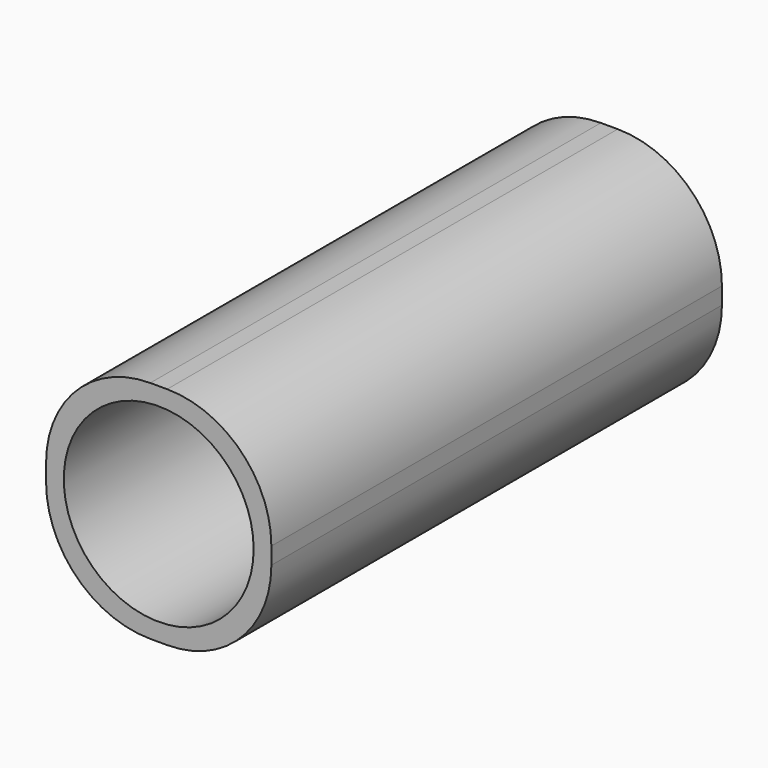
from build123d import *

# Parameters (mm, degrees)
F0_R     = 33.716309
F1_DEPTH = 200


with BuildPart() as f1:
    # F0 (on Front) → F1 (new body)
    with BuildSketch(Plane.XZ):
        with BuildLine():
            ThreePointArc((-40, -3), (-29.162951, -29.162951), (-3, -40))
            Line((-3, -40), (3, -40))
            ThreePointArc((3, -40), (29.162951, -29.162951), (40, -3))
            Line((40, -3), (40, 3))
            ThreePointArc((40, 3), (29.162951, 29.162951), (3, 40))
            Line((3, 40), (-3, 40))
            ThreePointArc((-3, 40), (-29.162951, 29.162951), (-40, 3))
            Line((-40, 3), (-40, -3))
        make_face()
        Circle(F0_R, mode=Mode.SUBTRACT)
    extrude(amount=F1_DEPTH)


solid = f1.part
